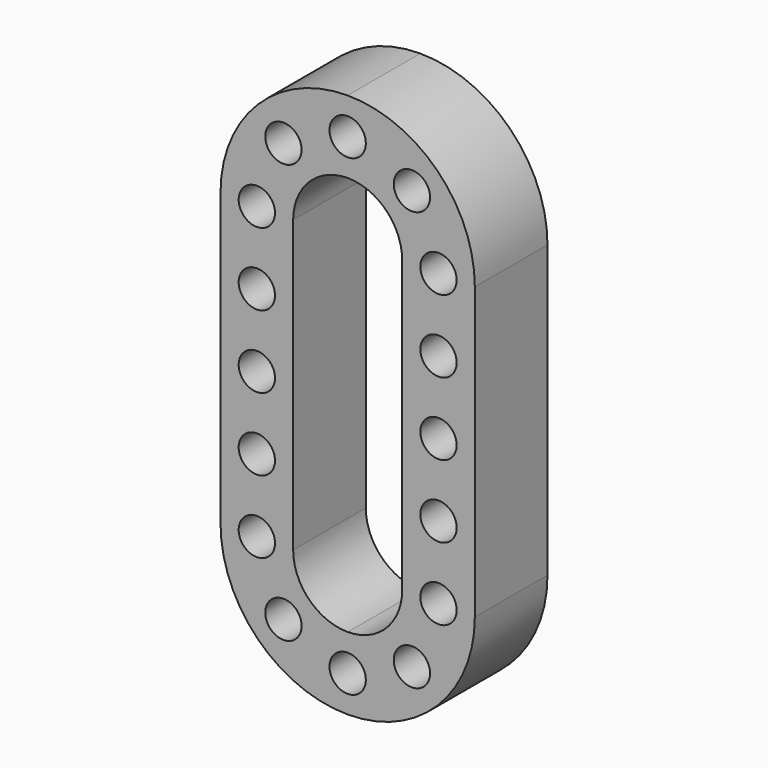
from build123d import *

# Parameters (mm, degrees)
F0_R     = 5
F1_DEPTH = 25


with BuildPart() as f1:
    # F0 (on Front) → F1 (new body)
    with BuildSketch(Plane.XZ):
        with BuildLine():
            ThreePointArc((0, 75), (-24.748737, 64.748737), (-35, 40))
            Line((-35, 40), (-35, 0))
            Line((-35, 0), (-35, -40))
            ThreePointArc((-35, -40), (-24.748737, -64.748737), (0, -75))
            ThreePointArc((0, -75), (24.748737, -64.748737), (35, -40))
            Line((35, -40), (35, 0))
            Line((35, 0), (35, 40))
            ThreePointArc((35, 40), (24.748737, 64.748737), (0, 75))
        make_face()
        with Locations((-17.67767, -57.67767)):
            Circle(F0_R, mode=Mode.SUBTRACT)
        with Locations((-25, -40)):
            Circle(F0_R, mode=Mode.SUBTRACT)
        with Locations((-25, -20)):
            Circle(F0_R, mode=Mode.SUBTRACT)
        with Locations((0, -65)):
            Circle(F0_R, mode=Mode.SUBTRACT)
        with Locations((17.67767, -57.67767)):
            Circle(F0_R, mode=Mode.SUBTRACT)
        with Locations((25, -40)):
            Circle(F0_R, mode=Mode.SUBTRACT)
        with Locations((25, -20)):
            Circle(F0_R, mode=Mode.SUBTRACT)
        with Locations((-25, 0)):
            Circle(F0_R, mode=Mode.SUBTRACT)
        with Locations((-25, 20)):
            Circle(F0_R, mode=Mode.SUBTRACT)
        with Locations((-25, 40)):
            Circle(F0_R, mode=Mode.SUBTRACT)
        with Locations((-17.67767, 57.67767)):
            Circle(F0_R, mode=Mode.SUBTRACT)
        with BuildLine():
            Line((-15, 0), (-15, 40))
            ThreePointArc((-15, 40), (-10.606602, 50.606602), (0, 55))
            ThreePointArc((0, 55), (10.606602, 50.606602), (15, 40))
            Line((15, 40), (15, 0))
            Line((15, 0), (15, -40))
            ThreePointArc((15, -40), (10.606602, -50.606602), (0, -55))
            ThreePointArc((0, -55), (-10.606602, -50.606602), (-15, -40))
            Line((-15, -40), (-15, 0))
        make_face(mode=Mode.SUBTRACT)
        with Locations((25, 0)):
            Circle(F0_R, mode=Mode.SUBTRACT)
        with Locations((25, 20)):
            Circle(F0_R, mode=Mode.SUBTRACT)
        with Locations((0, 65)):
            Circle(F0_R, mode=Mode.SUBTRACT)
        with Locations((25, 40)):
            Circle(F0_R, mode=Mode.SUBTRACT)
        with Locations((17.67767, 57.67767)):
            Circle(F0_R, mode=Mode.SUBTRACT)
    extrude(amount=F1_DEPTH)


solid = f1.part
